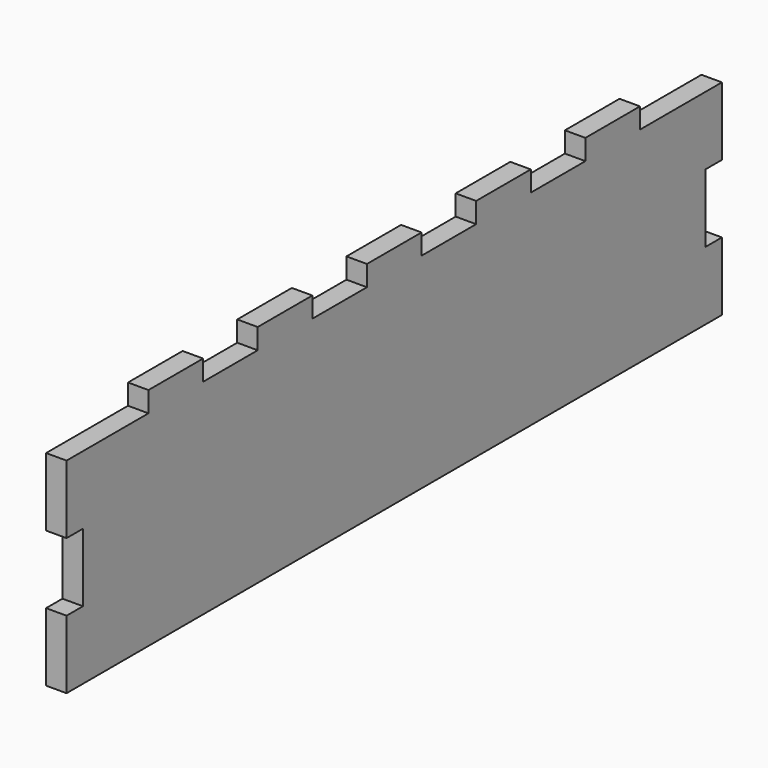
from build123d import *

# Parameters (mm, degrees)
F0_W     = 6
F0_H     = 240
F1_DEPTH = 60
F2_W     = 6
F2_H     = 20
F3_DEPTH = 6.001
F2_W_2   = 20
F2_H_2   = 6
F4_DEPTH = 6


with BuildPart() as f1:
    # F0 (on Top) → F1 (new body)
    with BuildSketch(Plane.XY):
        Rectangle(F0_W, F0_H)
    extrude(amount=F1_DEPTH)

    # F2 (on face) → F3 (cut, through all)
    with BuildSketch(Plane(origin=(-3, 0, 0), x_dir=(0, -1, 0), z_dir=(-1, 0, 0))):
        with Locations((-117, 30)):
            Rectangle(F2_W, F2_H)
        with Locations((117, 30)):
            Rectangle(F2_W, F2_H)
    extrude(amount=-F3_DEPTH, mode=Mode.SUBTRACT)

    # F2 (on face) → F4 (join)
    with BuildSketch(Plane(origin=(-3, 0, 0), x_dir=(0, -1, 0), z_dir=(-1, 0, 0))):
        with Locations((80, 63)):
            Rectangle(F2_W_2, F2_H_2)
        with Locations((40, 63)):
            Rectangle(F2_W_2, F2_H_2)
        with Locations((0, 63)):
            Rectangle(F2_W_2, F2_H_2)
        with Locations((-40, 63)):
            Rectangle(F2_W_2, F2_H_2)
        with Locations((-80, 63)):
            Rectangle(F2_W_2, F2_H_2)
    extrude(amount=-F4_DEPTH)


solid = f1.part
